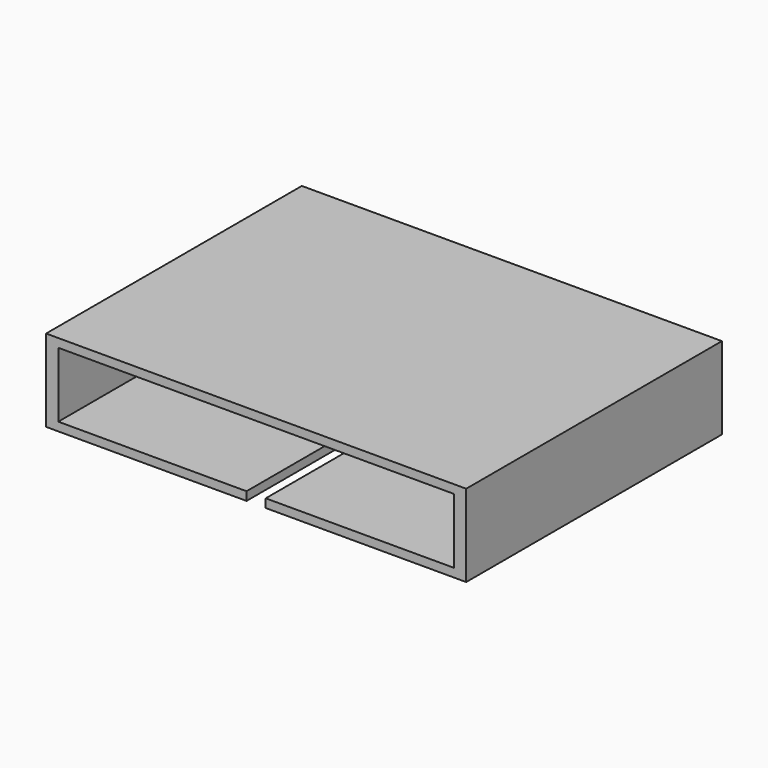
from build123d import *

# Parameters (mm, degrees)
F0_W      = 92
F0_H      = 18
F0_W_2    = 86.65
F0_H_2    = 14.25
F1_DEPTH  = 70
F2_DEPTH  = 35.8
F4_W      = 13.3
F4_H      = 8.6
F5_DEPTH  = 22
F3_R      = 2
F6_DEPTH  = 8
F8_DEPTH  = 4
F9_W      = 10.7813365757
F9_H      = 6.4464779571
F9_R      = 3.2
F10_DEPTH = 9.9
F11_W     = 4.2
F11_H     = 70
F12_DEPTH = 8.9
F13_R     = 4.9
F13_R_2   = 2.125
F14_DEPTH = 3.3
F15_DEPTH = 44.7


with BuildPart() as f1:
    # F0 (on Front) → F1 (new body)
    with BuildSketch(Plane.XZ):
        Rectangle(F0_W, F0_H)
        Rectangle(F0_W_2, F0_H_2, mode=Mode.SUBTRACT)
    extrude(amount=F1_DEPTH)

    # F0 (on Front) → F2 (join)
    with BuildSketch(Plane.XZ):
        Rectangle(F0_W_2, F0_H_2)
    extrude(amount=F2_DEPTH)

    # F4 (on face) → F5 (cut)
    with BuildSketch(Plane.XZ.offset(35.8)):
        Rectangle(F4_W, F4_H)
    extrude(amount=-F5_DEPTH, mode=Mode.SUBTRACT)

    # F3 (on Front) → F6 (cut)
    with BuildSketch(Plane.XZ):
        Circle(F3_R)
    extrude(amount=F6_DEPTH, mode=Mode.SUBTRACT)

    # F7 (on Front) → F8 (cut)
    with BuildSketch(Plane.XZ):
        with BuildLine():
            ThreePointArc((-16, -4.75), (-15.1945436483, -2.8054563517), (-13.25, -2))
            Line((-13.25, -2), (13.25, -2))
            ThreePointArc((13.25, -2), (15.1945436483, -2.8054563517), (16, -4.75))
            Line((16, -4.75), (16, -9.8020741716))
            Line((16, -9.8020741716), (20, -9.8020741716))
            Line((20, -9.8020741716), (20, -2))
            Line((20, -2), (20, -0.75))
            ThreePointArc((20, -0.75), (19.1945436483, 1.1945436483), (17.25, 2))
            Line((17.25, 2), (16, 2))
            Line((16, 2), (-16, 2))
            Line((-16, 2), (-17.25, 2))
            ThreePointArc((-17.25, 2), (-19.1945436483, 1.1945436483), (-20, -0.75))
            Line((-20, -0.75), (-20, -2))
            Line((-20, -2), (-20, -11.9064366445))
            Line((-20, -11.9064366445), (-16, -11.9064366445))
            Line((-16, -11.9064366445), (-16, -4.75))
        make_face()
    extrude(amount=F8_DEPTH, mode=Mode.SUBTRACT)

    # F9 (on face) → F10 (cut)
    with BuildSketch(Plane.XZ.offset(13.8)):
        with Locations((0, -0.695)):
            Rectangle(F9_W, F9_H)
        with Locations((0, -0.695)):
            Circle(F9_R, mode=Mode.SUBTRACT)
        with Locations((0, -0.695)):
            Circle(F9_R)
    extrude(amount=-F10_DEPTH, mode=Mode.SUBTRACT)

    # F11 (on face) → F12 (cut)
    with BuildSketch(Plane(origin=(0, 0, -9), x_dir=(1, 0, 0), z_dir=(0, 0, -1))):
        with Locations((0, 35)):
            Rectangle(F11_W, F11_H)
    extrude(amount=-F12_DEPTH, mode=Mode.SUBTRACT)

    # F13 (on face) → F14 (cut)
    with BuildSketch(Plane.XZ.offset(35.8)):
        with Locations((24.9875, 0)):
            Circle(F13_R)
        with Locations((24.9875, 0)):
            Circle(F13_R_2, mode=Mode.SUBTRACT)
        with Locations((-24.9875, 0)):
            Circle(F13_R)
        with Locations((-24.9875, 0)):
            Circle(F13_R_2, mode=Mode.SUBTRACT)
        with Locations((-24.9875, 0)):
            Circle(F13_R_2)
        with Locations((24.9875, 0)):
            Circle(F13_R_2)
    extrude(amount=-F14_DEPTH, mode=Mode.SUBTRACT)

    # F13 (on face) → F15 (cut)
    with BuildSketch(Plane.XZ.offset(35.8)):
        with Locations((-24.9875, 0)):
            Circle(F13_R_2)
        with Locations((24.9875, 0)):
            Circle(F13_R_2)
    extrude(amount=-F15_DEPTH, mode=Mode.SUBTRACT)


solid = f1.part
